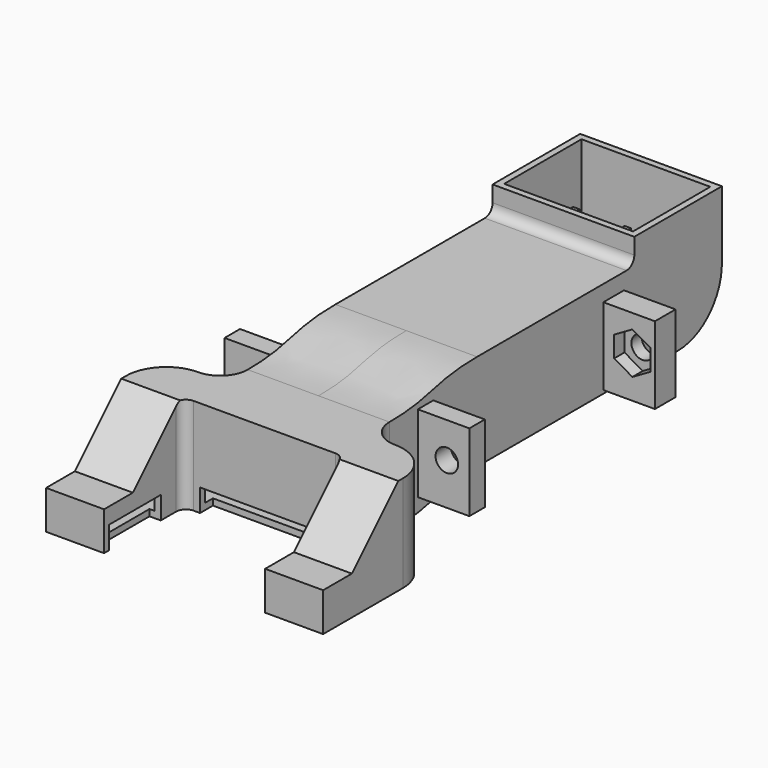
from build123d import *

# Parameters (mm, degrees)
PAD008_DEPTH         = 13
POCKET012_DEPTH      = 20.501
POCKET012_DEPTH_BACK = 20.501
SKETCH037_W          = 20
SKETCH037_H          = 63.5
PAD012_DEPTH         = 20
POCKET020_DEPTH      = 20.501
POCKET020_DEPTH_BACK = 20.501
THICKNESS_T          = 1
SKETCH028_W          = 20
SKETCH028_H          = 7
SKETCH028_W_2        = 28.5
SKETCH028_H_2        = 10
POCKET021_DEPTH      = 5
SKETCH029_W          = 9
SKETCH029_H          = 3
SKETCH029_W_2        = 9.0000000001
SKETCH029_H_2        = 4
PAD013_DEPTH         = 12
SKETCH030_R          = 1.75
POCKET022_DEPTH      = 59.0010001
POCKET023_DEPTH      = 2
SKETCH041_W          = 1
SKETCH041_H          = 38
PAD016_DEPTH         = 15


with BuildPart() as part:
    # Sketch020 → Pad008 (new body)
    with BuildSketch(Plane.XY):
        with BuildLine():
            Line((-13.5, 0), (-13.5, -10))
            Line((-13.5, -10), (-20.5, -10))
            Line((-20.5, -10), (-20.5, 4.5))
            ThreePointArc((-15.25, 9.75), (-18.9623106012, 8.2123106012), (-20.5, 4.5))
            ThreePointArc((-15.25, 9.7500000001), (-11.5376893988, 11.2876893988), (-10, 15))
            Line((-10, 15), (10, 15))
            ThreePointArc((10, 15), (11.5376893988, 11.2876893988), (15.25, 9.75))
            ThreePointArc((20.5, 4.5), (18.9623106012, 8.2123106012), (15.25, 9.75))
            Line((20.5, -10), (20.5, 4.5))
            Line((13.5, -10), (20.5, -10))
            Line((13.5, 0), (13.5, -10))
            Line((13.5, 0), (13.5, 3))
            ThreePointArc((13.5, 3), (12.767766953, 4.767766953), (11, 5.5))
            Line((-11, 5.5), (11, 5.5))
            ThreePointArc((-11, 5.5), (-12.767766953, 4.767766953), (-13.5, 3))
            Line((-13.5, 0), (-13.5, 3))
        make_face()
    extrude(amount=PAD008_DEPTH)

    # Sketch021 → Pocket012 (cut, two sides)
    with BuildSketch(Plane.YZ) as pocket012_sk:
        Polygon((-10, 4), (-5, 4), (10, 19), (-10, 19), align=None)
    extrude(amount=-POCKET012_DEPTH, mode=Mode.SUBTRACT)
    extrude(pocket012_sk.sketch, amount=POCKET012_DEPTH_BACK, mode=Mode.SUBTRACT)

    # Sketch037 → Pad012 (join)
    with BuildSketch(Plane.XY):
        with Locations((0, 46.75)):
            Rectangle(SKETCH037_W, SKETCH037_H)
    extrude(amount=PAD012_DEPTH)

    # Sketch038 → Pocket020 (cut, two sides)
    with BuildSketch(Plane.YZ) as pocket020_sk:
        with BuildLine():
            Line((15, 33), (15, 13))
            add(Edge.make_bspline(
                [(15, 13), (23.5, 13), (23.5, 15), (32, 15)],
                knots=[0, 0, 0, 0, 1, 1, 1, 1], degree=3))
            Line((32, 15), (61, 15))
            ThreePointArc((61, 15), (62.767766953, 15.732233047), (63.5, 17.5))
            Line((63.5, 17.5), (63.5, 33))
            Line((63.5, 33), (15, 33))
        make_face()
        with BuildLine():
            add(Edge.make_bspline(
                [(15, 0), (23.5, 0), (23.5, 2), (32, 2)],
                knots=[0, 0, 0, 0, 1, 1, 1, 1], degree=3))
            Line((32, 2), (71, 2))
            ThreePointArc((71, 2), (76.3033008589, 4.1966991411), (78.5, 9.5))
            Line((78.5, 9.5), (78.5, 33))
            Line((78.5, 33), (98.5, 33))
            Line((98.5, 33), (98.5, 0))
            Line((98.5, 0), (15, 0))
        make_face()
    extrude(amount=-POCKET020_DEPTH, mode=Mode.SUBTRACT)
    extrude(pocket020_sk.sketch, amount=POCKET020_DEPTH_BACK, mode=Mode.SUBTRACT)

    # Thickness
    thickness_openings = [part.faces().sort_by_distance(p)[0] for p in [
        (0, 71, 20),
    ]]
    offset(amount=THICKNESS_T, openings=thickness_openings, kind=Kind.INTERSECTION)

    # Sketch028 (on DatumPlane) → Pocket021 (cut)
    with BuildSketch(Plane.XY.offset(2.5)):
        with Locations((0, 3.5)):
            Rectangle(SKETCH028_W, SKETCH028_H)
        with Locations((0, -5)):
            Rectangle(SKETCH028_W_2, SKETCH028_H_2)
    extrude(amount=-POCKET021_DEPTH, mode=Mode.SUBTRACT)

    # Sketch029 (on DatumPlane) → Pad013 (join)
    with BuildSketch(Plane.XY.offset(1.5)):
        with Locations((14.5, 22)):
            Rectangle(SKETCH029_W, SKETCH029_H)
        with Locations((-14.5, 22)):
            Rectangle(SKETCH029_W, SKETCH029_H)
        with Locations((14.5, 58.5)):
            Rectangle(SKETCH029_W_2, SKETCH029_H_2)
    extrude(amount=PAD013_DEPTH)

    # Sketch030 (on DatumPlane) → Pocket022 (cut, through all)
    with BuildSketch(Plane(origin=(0, 20.5, 0), x_dir=(-1, 0, 0), z_dir=(0, 1, 0))):
        with Locations((-15.5, 8)):
            Circle(SKETCH030_R)
        with Locations((15, 8)):
            Circle(SKETCH030_R)
    extrude(amount=POCKET022_DEPTH, mode=Mode.SUBTRACT)

    # Sketch035 (on DatumPlane) → Pocket023 (cut)
    with BuildSketch(Plane(origin=(0, 56.5, 0), x_dir=(-1, 0, 0), z_dir=(0, 1, 0))):
        Polygon((-12.6854174377, 6.375), (-12.6854174377, 9.625), (-15.5, 11.25), (-18.3145825623, 9.625), (-18.3145825623, 6.375), (-15.5, 4.75), align=None)
    extrude(amount=POCKET023_DEPTH, mode=Mode.SUBTRACT)

    # Sketch041 (on DatumPlane) → Pad016 (join)
    with BuildSketch(Plane.XY.offset(1)):
        with Locations((-4, 51)):
            Rectangle(SKETCH041_W, SKETCH041_H)
        with Locations((4, 51)):
            Rectangle(SKETCH041_W, SKETCH041_H)
    extrude(amount=PAD016_DEPTH)


with BuildPart() as part_1:
    # Body003 placement: moved
    add(part.part.moved(Location((4, -20.5, -32))))


solid = part_1.part
